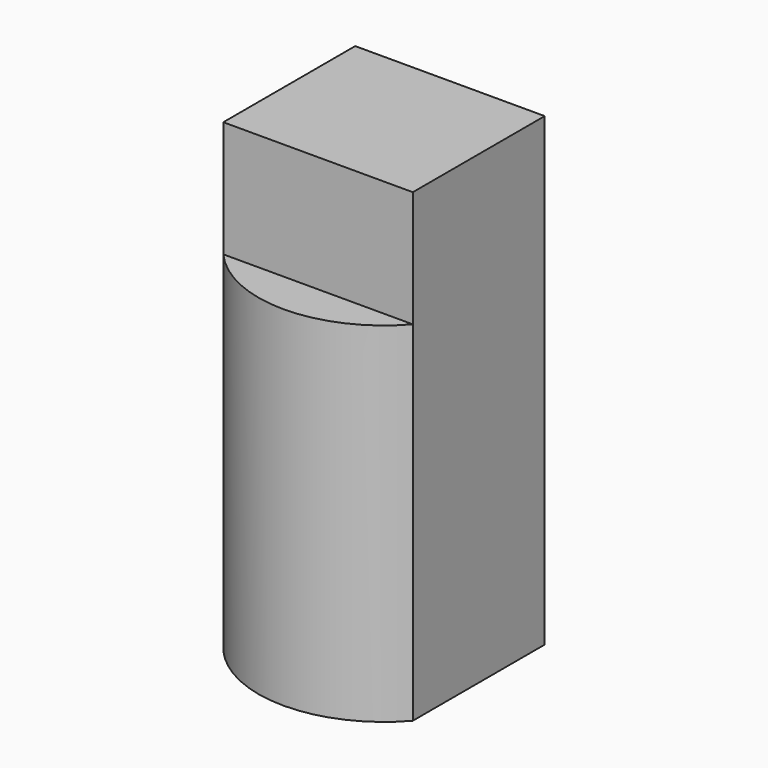
from build123d import *

# Parameters (mm, degrees)
F0_W     = 41.372892
F0_H     = 35.991504
F1_DEPTH = 101.6
F2_DEPTH = 76.2


with BuildPart() as f1:
    # F0 (on Top) → F1 (new body)
    with BuildSketch(Plane.XY):
        Rectangle(F0_W, F0_H)
    extrude(amount=F1_DEPTH)

    # F0 (on Top) → F2 (join)
    with BuildSketch(Plane.XY):
        with BuildLine():
            Line((-20.686446, 17.995752), (20.686446, 17.995752))
            ThreePointArc((20.686446, 17.995752), (0, 27.418536), (-20.686446, 17.995752))
        make_face()
        with BuildLine():
            Line((-20.686446, -17.995752), (-20.686446, 17.995752))
            ThreePointArc((-20.686446, 17.995752), (-27.418536, 0), (-20.686446, -17.995752))
        make_face()
        with BuildLine():
            ThreePointArc((-20.686446, -17.995752), (0, -27.418536), (20.686446, -17.995752))
            Line((20.686446, -17.995752), (-20.686446, -17.995752))
        make_face()
    extrude(amount=F2_DEPTH)


solid = f1.part
